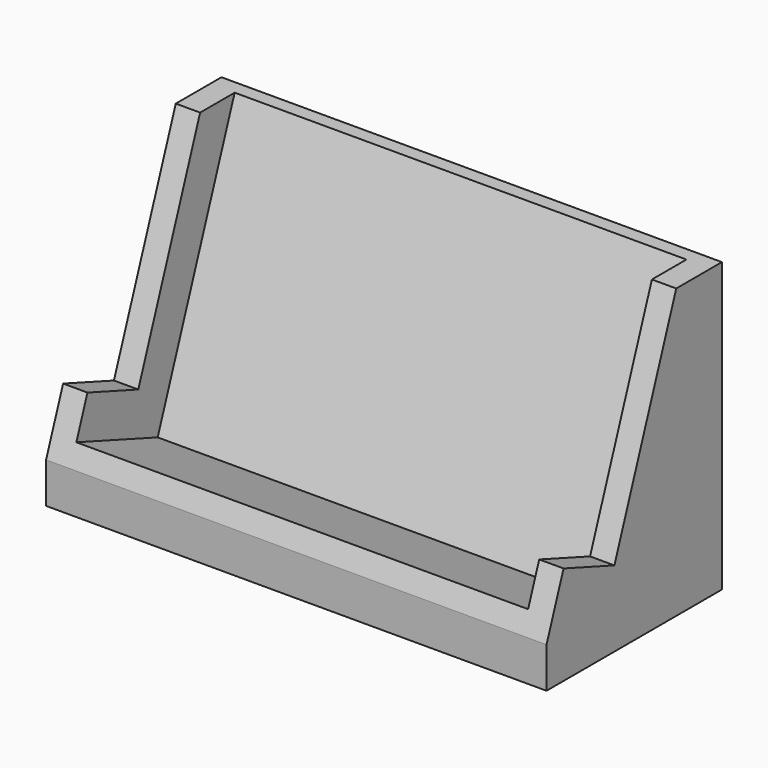
from build123d import *

# Parameters (mm, degrees)
F0_W     = 40
F0_H     = 112.7631144943
F1_DEPTH = 92.5
F2_W     = 167
F2_H     = 104
F3_DEPTH = 40
F4_W     = 19.1075097164
F4_H     = 21.1983466993
F5_DEPTH = 200
F7_DEPTH = 200


with BuildPart() as f1:
    # F0 (on Right) → F1 (new body, symmetric)
    with BuildSketch(Plane.YZ):
        Polygon((41.0424171991, 112.7631144943), (0, 0), (41.0424171991, 0), align=None)
        Polygon((41.0424171991, 0), (0, 0), (0, -15), (81.0424171991, -15), (81.0424171991, 0), align=None)
        with Locations((61.0424171991, 56.3815572472)):
            Rectangle(F0_W, F0_H)
    extrude(amount=F1_DEPTH, both=True)

    # F2 (on face) → F3 (cut)
    with BuildSketch(Plane(origin=(0, 0, 0), x_dir=(1, 0, 0), z_dir=(0, -0.9396926208, 0.3420201433))):
        with Locations((0, 60)):
            Rectangle(F2_W, F2_H)
    extrude(amount=-F3_DEPTH, mode=Mode.SUBTRACT)

    # F4 (on face) → F5 (cut)
    with BuildSketch(Plane.YZ.offset(92.5)):
        with Locations((90.5961720573, 102.1639411447)):
            Rectangle(F4_W, F4_H)
        Polygon((81.0424171991, 91.564767795), (81.0424171991, 112.7631144943), (41.0424171991, 112.7631144943), (33.3268499849, 91.564767795), align=None)
        Polygon((33.3268499849, 91.564767795), (41.0424171991, 112.7631144943), (33.0099269154, 112.7631144943), (33.0099269154, 91.564767795), align=None)
    extrude(amount=-F5_DEPTH, mode=Mode.SUBTRACT)

    # F6 (on face) → F7 (cut)
    with BuildSketch(Plane.YZ.offset(92.5)):
        Polygon((33.3268499849, 91.564767795), (7.8664632965, 21.6129302781), (31.3587788161, 13.0624266949), (59.9312942968, 91.564767795), align=None)
    extrude(amount=-F7_DEPTH, mode=Mode.SUBTRACT)


solid = f1.part
